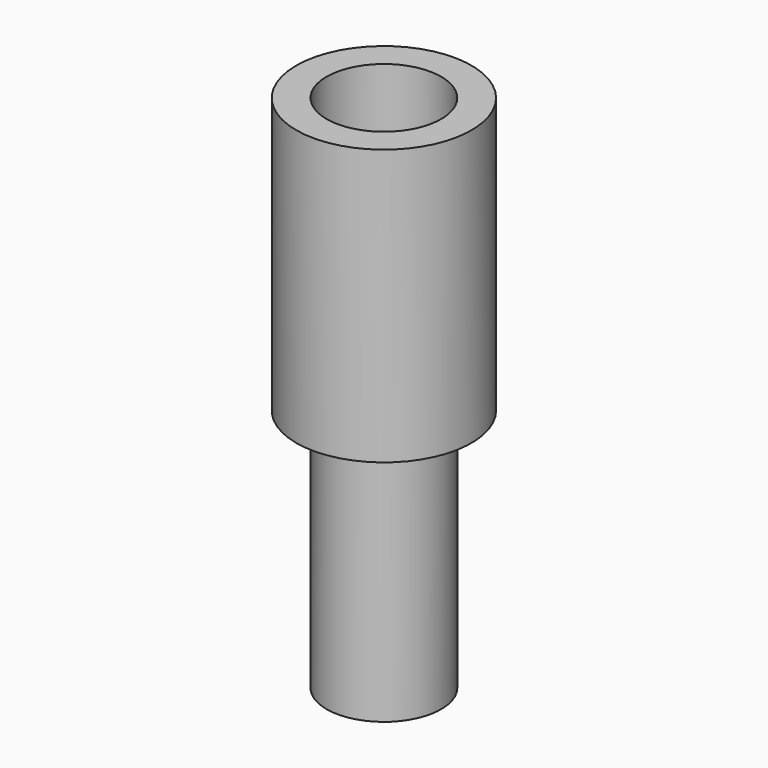
from build123d import *

# Parameters (mm, degrees)
F0_W     = 36.7259010673
F0_H     = 115.4242623597
F2_T     = -12.7
F3_DEPTH = 115.062


with BuildPart() as f1:
    # F0 (on Front) → F1 (revolve)
    with BuildSketch(Plane.XZ):
        with Locations((-18.3629505336, -4.5178690925)):
            Rectangle(F0_W, F0_H)
    revolve(axis=Axis((0, 0, -4.5178690925), (0, 0, -1)))

    # F2
    f2_openings = [f1.faces().sort_by_distance(p)[0] for p in [
        (0, 0, 53.194262),
    ]]
    offset(amount=F2_T, openings=f2_openings)

    # F3 (add): a face of the model
    f3_faces = [f1.faces().sort_by_distance(p)[0] for p in [
        (0, 0, -49.5300002724),
    ]]
    extrude(f3_faces, amount=-F3_DEPTH)


solid = f1.part
